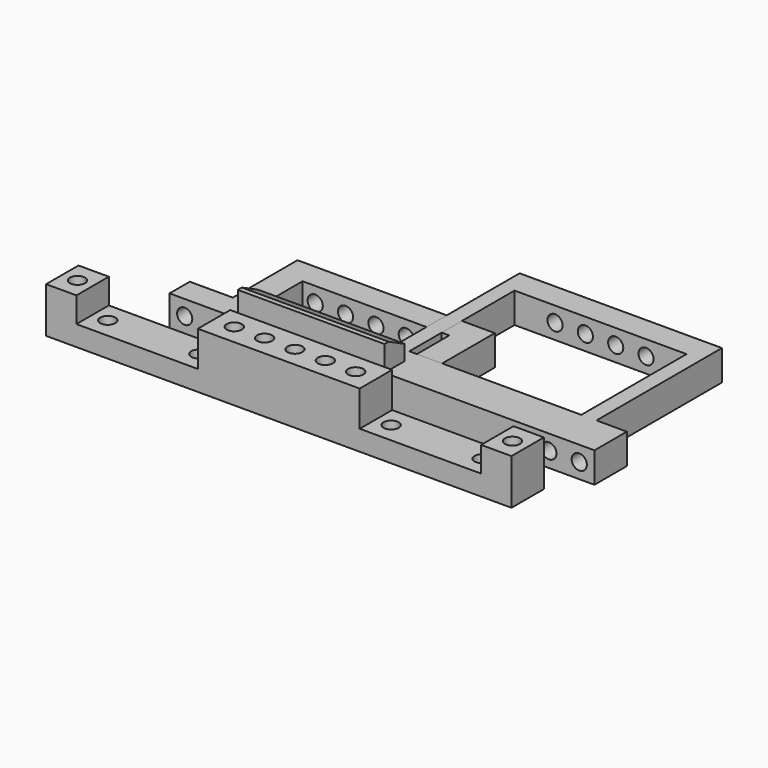
from build123d import *

# Parameters (mm, degrees)
PAD_DEPTH            = 8
SKETCH001_R          = 1.5
POCKET_DEPTH         = 4.001
POCKET_DEPTH_BACK    = -7.001
PAD001_DEPTH         = 6
SKETCH003_R          = 1.5
POCKET001_DEPTH      = 21.001
POCKET001_DEPTH_BACK = -0.001
SKETCH004_W          = 29
SKETCH004_H          = 5
PAD002_DEPTH         = 11
POCKET002_DEPTH      = 28.001
POCKET002_DEPTH_BACK = -28.001
SKETCH006_W          = 34
SKETCH006_H          = 26
PAD003_DEPTH         = 6
SKETCH007_R          = 1.5
POCKET003_DEPTH      = 8
SKETCH008_R          = 1.5
POCKET004_DEPTH      = 5


with BuildPart() as obj1:
    # Sketch → Pad (new body)
    with BuildSketch(Plane.XZ):
        Polygon((-16, -4), (16, -4), (40, -4), (46, -4), (46, 0), (46, 5), (40, 5), (40, 0), (16, 0), (16, 7), (-16, 7), (-16, 0), (-40, 0), (-40, 5), (-46, 5), (-46, 0), (-46, -4), (-40, -4), align=None)
    extrude(amount=PAD_DEPTH)

    # Sketch001 → Pocket (cut, two sides)
    with BuildSketch(Plane.XY) as pocket_sk:
        with Locations((-43, -4)):
            Circle(SKETCH001_R)
        with Locations((43, -4)):
            Circle(SKETCH001_R)
        with Locations((0, -4)):
            Circle(SKETCH001_R)
        with Locations((-6, -4)):
            Circle(SKETCH001_R)
        with Locations((6, -4)):
            Circle(SKETCH001_R)
        with Locations((-12, -4)):
            Circle(SKETCH001_R)
        with Locations((12, -4)):
            Circle(SKETCH001_R)
        with Locations((-37, -4)):
            Circle(SKETCH001_R)
        with Locations((37, -4)):
            Circle(SKETCH001_R)
        with Locations((19, -4)):
            Circle(SKETCH001_R)
        with Locations((-19, -4)):
            Circle(SKETCH001_R)
    extrude(amount=-POCKET_DEPTH, mode=Mode.SUBTRACT)
    extrude(pocket_sk.sketch, amount=-POCKET_DEPTH_BACK, mode=Mode.SUBTRACT)


with BuildPart() as obj2:
    # Sketch002 → Pad001 (new body)
    with BuildSketch(Plane.XY):
        Polygon((-28, 0), (-14.5, 0), (-14.5, 16), (14.5, 16), (14.5, 0), (28, 0), (28, 5), (19.5, 5), (19.5, 21), (-19.5, 21), (-19.5, 5), (-28, 5), align=None)
    extrude(amount=PAD001_DEPTH)

    # Sketch003 → Pocket001 (cut, two sides)
    with BuildSketch(Plane.XZ) as pocket001_sk:
        with Locations((-25, 3)):
            Circle(SKETCH003_R)
        with Locations((25, 3)):
            Circle(SKETCH003_R)
        with Locations((0, 3)):
            Circle(SKETCH003_R)
        with Locations((-6, 3)):
            Circle(SKETCH003_R)
        with Locations((6, 3)):
            Circle(SKETCH003_R)
        with Locations((-12, 3)):
            Circle(SKETCH003_R)
        with Locations((12, 3)):
            Circle(SKETCH003_R)
    extrude(amount=-POCKET001_DEPTH, mode=Mode.SUBTRACT)
    extrude(pocket001_sk.sketch, amount=-POCKET001_DEPTH_BACK, mode=Mode.SUBTRACT)

    # Sketch004 → Pad002 (join)
    with BuildSketch(Plane.XY):
        with Locations((0, 2.5)):
            Rectangle(SKETCH004_W, SKETCH004_H)
    extrude(amount=PAD002_DEPTH)

    # Sketch005 → Pocket002 (cut, two sides)
    with BuildSketch(Plane.YZ) as pocket002_sk:
        Polygon((1, 11), (5, 9), (5, 11), align=None)
    extrude(amount=-POCKET002_DEPTH, mode=Mode.SUBTRACT)
    extrude(pocket002_sk.sketch, amount=-POCKET002_DEPTH_BACK, mode=Mode.SUBTRACT)


with BuildPart() as obj3:
    # Sketch006 → Pad003 (new body)
    with BuildSketch(Plane.XY):
        Polygon((0, 0), (56, 0), (56, 8), (50, 8), (50, 39), (10, 39), (10, 8), (0, 8), align=None)
        with Locations((30, 21)):
            Rectangle(SKETCH006_W, SKETCH006_H, mode=Mode.SUBTRACT)
    extrude(amount=PAD003_DEPTH)

    # Sketch007 → Pocket003 (cut)
    with BuildSketch(Plane.XZ):
        with Locations((53, 3)):
            Circle(SKETCH007_R)
        with Locations((47, 3)):
            Circle(SKETCH007_R)
    extrude(amount=-POCKET003_DEPTH, mode=Mode.SUBTRACT)

    # Sketch008 (on Face12 of Pocket003) → Pocket004 (cut)
    with BuildSketch(Plane(origin=(0, 39, 0), x_dir=(-1, 0, 0), z_dir=(0, 1, 0))):
        with Locations((-33, 3)):
            Circle(SKETCH008_R)
        with Locations((-27, 3)):
            Circle(SKETCH008_R)
        with Locations((-21, 3)):
            Circle(SKETCH008_R)
        with Locations((-39, 3)):
            Circle(SKETCH008_R)
    extrude(amount=-POCKET004_DEPTH, mode=Mode.SUBTRACT)


solid = Compound([obj1.part, obj2.part, obj3.part])
